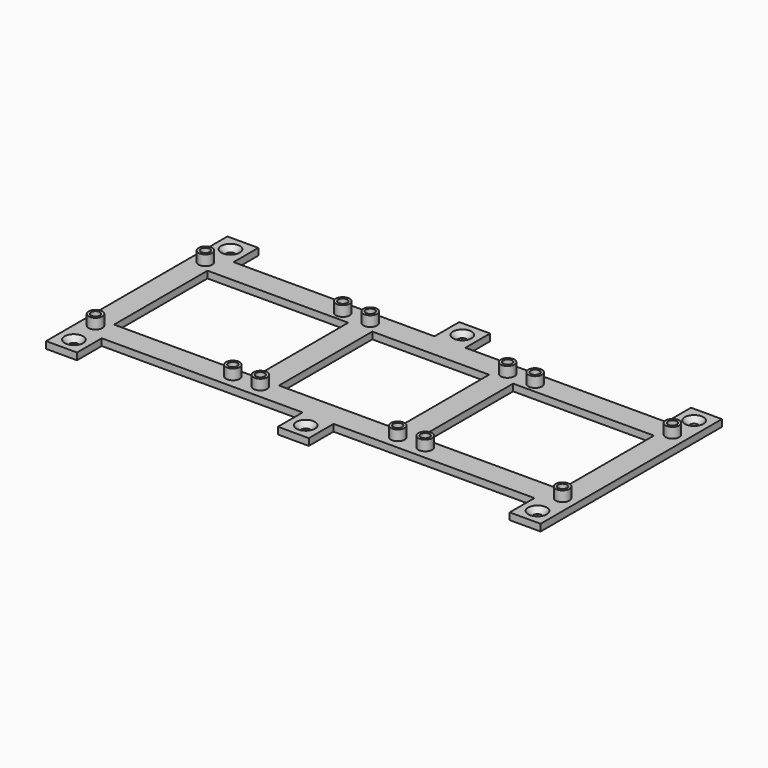
from build123d import *

# Parameters (mm, degrees)
F0_R           = 2.54
F0_W           = 43.18
F0_H           = 43.18
F0_W_2         = 8.89
F0_W_3         = 11.43
F0_H_2         = 11.43
F1_DEPTH       = 2.54
F2_DEPTH       = 6.35
F3_D           = 3.302
F5_D           = 3.175
F5_CSINK_D     = 6.858
F5_CSINK_ANGLE = 90


with BuildPart() as f1:
    # F0 (on Top) → F1 (new body)
    with BuildSketch(Plane.XY):
        Polygon((30.48, 21.59), (30.48, 30.48), (5.715, 30.48), (-5.715, 30.48), (-30.48, 30.48), (-30.48, 21.59), (-30.48, -21.59), (-30.48, -30.48), (-5.715, -30.48), (5.715, -30.48), (30.48, -30.48), (30.48, -21.59), align=None)
        with Locations((-25.4, -25.4)):
            Circle(F0_R, mode=Mode.SUBTRACT)
        with Locations((25.4, -25.4)):
            Circle(F0_R, mode=Mode.SUBTRACT)
        with Locations((-25.4, 25.4)):
            Circle(F0_R, mode=Mode.SUBTRACT)
        Rectangle(F0_W, F0_H, mode=Mode.SUBTRACT)
        with Locations((25.4, 25.4)):
            Circle(F0_R, mode=Mode.SUBTRACT)
        Polygon((-30.48, 21.59), (-30.48, 30.48), (-80.01, 30.48), (-91.44, 30.48), (-91.44, 21.59), (-82.55, 21.59), align=None)
        with Locations((-86.36, 25.4)):
            Circle(F0_R, mode=Mode.SUBTRACT)
        with Locations((-35.56, 25.4)):
            Circle(F0_R, mode=Mode.SUBTRACT)
        with Locations((-86.995, 0)):
            Rectangle(F0_W_2, F0_H)
        Polygon((-30.48, -30.48), (-30.48, -21.59), (-82.55, -21.59), (-91.44, -21.59), (-91.44, -30.48), (-80.01, -30.48), align=None)
        with Locations((-86.36, -25.4)):
            Circle(F0_R, mode=Mode.SUBTRACT)
        with Locations((-35.56, -25.4)):
            Circle(F0_R, mode=Mode.SUBTRACT)
        Polygon((80.01, 30.48), (30.48, 30.48), (30.48, 21.59), (82.55, 21.59), (91.44, 21.59), (91.44, 30.48), align=None)
        with Locations((35.56, 25.4)):
            Circle(F0_R, mode=Mode.SUBTRACT)
        with Locations((86.36, 25.4)):
            Circle(F0_R, mode=Mode.SUBTRACT)
        Polygon((82.55, -21.59), (30.48, -21.59), (30.48, -30.48), (80.01, -30.48), (91.44, -30.48), (91.44, -21.59), align=None)
        with Locations((35.56, -25.4)):
            Circle(F0_R, mode=Mode.SUBTRACT)
        with Locations((86.36, -25.4)):
            Circle(F0_R, mode=Mode.SUBTRACT)
        with Locations((86.995, 0)):
            Rectangle(F0_W_2, F0_H)
        with Locations((-85.725, 36.195)):
            Rectangle(F0_W_3, F0_H_2)
        with Locations((85.725, 36.195)):
            Rectangle(F0_W_3, F0_H_2)
        with Locations((85.725, -36.195)):
            Rectangle(F0_W_3, F0_H_2)
        with Locations((-85.725, -36.195)):
            Rectangle(F0_W_3, F0_H_2)
        with Locations((0, 36.195)):
            Rectangle(F0_W_3, F0_H_2)
        with Locations((0, -36.195)):
            Rectangle(F0_W_3, F0_H_2)
    extrude(amount=F1_DEPTH)

    # F0 (on Top) → F2 (join)
    with BuildSketch(Plane.XY):
        with Locations((-25.4, 25.4)):
            Circle(F0_R)
        with Locations((25.4, 25.4)):
            Circle(F0_R)
        with Locations((25.4, -25.4)):
            Circle(F0_R)
        with Locations((-25.4, -25.4)):
            Circle(F0_R)
        with Locations((-86.36, 25.4)):
            Circle(F0_R)
        with Locations((-86.36, -25.4)):
            Circle(F0_R)
        with Locations((-35.56, 25.4)):
            Circle(F0_R)
        with Locations((-35.56, -25.4)):
            Circle(F0_R)
        with Locations((35.56, -25.4)):
            Circle(F0_R)
        with Locations((86.36, -25.4)):
            Circle(F0_R)
        with Locations((86.36, 25.4)):
            Circle(F0_R)
        with Locations((35.56, 25.4)):
            Circle(F0_R)
    extrude(amount=F2_DEPTH)

    # F3 (through all)
    with Locations(Plane(origin=(0, 0, 0), x_dir=(1, 0, 0), z_dir=(0, 0, -1))):
        with Locations((-25.4, 25.4), (25.4, 25.4), (25.4, -25.4), (-25.4, -25.4), (-86.36, 25.4), (-35.56, 25.4), (-86.36, -25.4), (-35.56, -25.4), (35.56, 25.4), (86.36, 25.4), (35.56, -25.4), (86.36, -25.4)):
            Hole(F3_D / 2)

    # F5 (through all)
    with Locations(Plane.XY.offset(2.54)):
        with Locations((-85.725, 36.195), (-85.725, -36.195), (85.725, -36.195), (85.725, 36.195), (0, 36.195), (0, -36.195)):
            CounterSinkHole(F5_D / 2, F5_CSINK_D / 2, counter_sink_angle=F5_CSINK_ANGLE)


solid = f1.part
